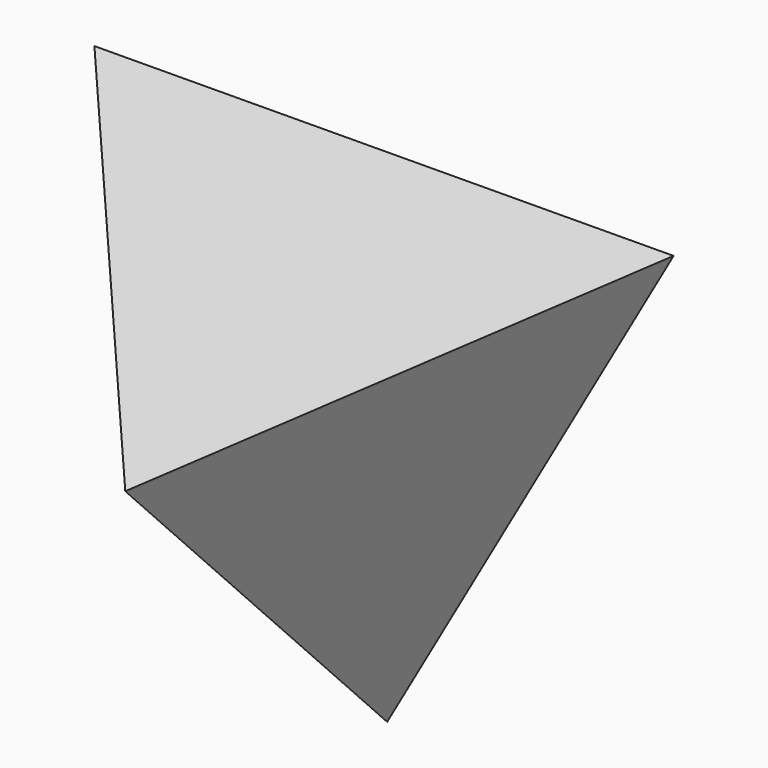
from build123d import *


with BuildPart() as f3:
    # F0 (on Front) → F3 section 0
    with BuildSketch(Plane.XZ, mode=Mode.PRIVATE) as f3_s0:
        Polygon((88.85396, 52.055307), (-89.508198, 50.922133), (0.654238, -102.97744), align=None)
    loft([Vertex(0, -100, 0), f3_s0.sketch])


solid = f3.part
